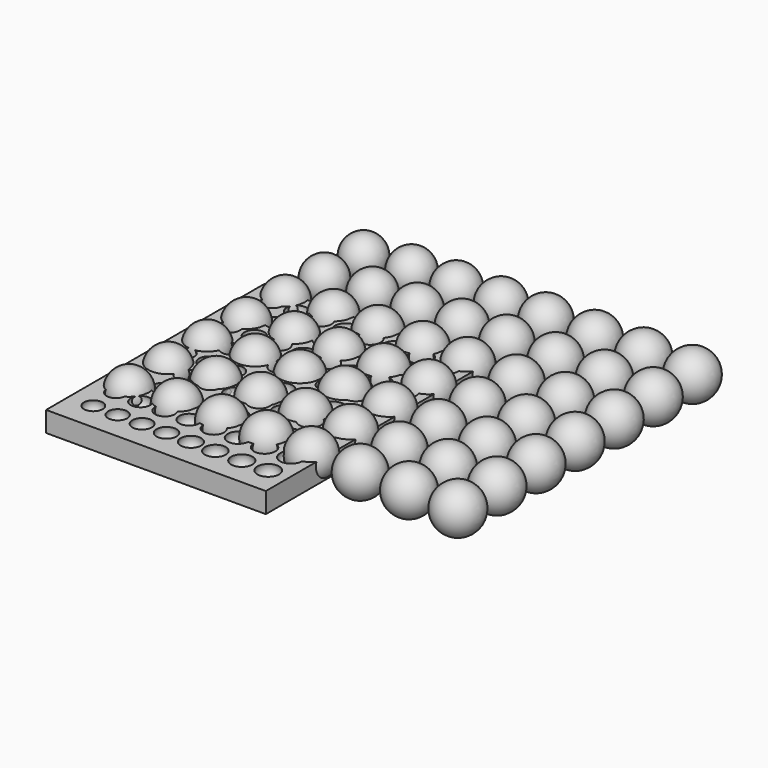
from build123d import *

# Parameters (mm, degrees)
BOX001_W     = 54
BOX001_H     = 67
BOX001_DEPTH = 5


with BuildPart() as sphere014:
    # Sphere014 → Sphere014 (revolve)
    with BuildSketch(Plane(origin=(75, 19, 6.95), x_dir=(1, 0, 0), z_dir=(0, -1, 0))):
        with BuildLine():
            ThreePointArc((0, -5.6), (5.6, 0), (0, 5.6))
            Line((0, 5.6), (0, -5.6))
        make_face()
    revolve(axis=Axis((75, 19, 6.95), (0, 0, 1)))


with BuildPart() as sphere010:
    # Sphere010 → Sphere010 (revolve)
    with BuildSketch(Plane(origin=(18, 19, 6.95), x_dir=(1, 0, 0), z_dir=(0, -1, 0))):
        with BuildLine():
            ThreePointArc((0, -5.1), (5.1, 0), (0, 5.1))
            Line((0, 5.1), (0, -5.1))
        make_face()
    revolve(axis=Axis((18, 19, 6.95), (0, 0, 1)))


with BuildPart() as sphere013:
    # Sphere013 → Sphere013 (revolve)
    with BuildSketch(Plane(origin=(40, 19, 6.95), x_dir=(1, 0, 0), z_dir=(0, -1, 0))):
        with BuildLine():
            ThreePointArc((0, -5.3), (5.3, 0), (0, 5.3))
            Line((0, 5.3), (0, -5.3))
        make_face()
    revolve(axis=Axis((40, 19, 6.95), (0, 0, 1)))


with BuildPart() as sphere011:
    # Sphere011 → Sphere011 (revolve)
    with BuildSketch(Plane(origin=(29, 19, 6.95), x_dir=(1, 0, 0), z_dir=(0, -1, 0))):
        with BuildLine():
            ThreePointArc((0, -5.2), (5.2, 0), (0, 5.2))
            Line((0, 5.2), (0, -5.2))
        make_face()
    revolve(axis=Axis((29, 19, 6.95), (0, 0, 1)))


with BuildPart() as sphere015:
    # Sphere015 → Sphere015 (revolve)
    with BuildSketch(Plane(origin=(63, 19, 6.95), x_dir=(1, 0, 0), z_dir=(0, -1, 0))):
        with BuildLine():
            ThreePointArc((0, -5.5), (5.5, 0), (0, 5.5))
            Line((0, 5.5), (0, -5.5))
        make_face()
    revolve(axis=Axis((63, 19, 6.95), (0, 0, 1)))


with BuildPart() as sphere012:
    # Sphere012 → Sphere012 (revolve)
    with BuildSketch(Plane(origin=(51, 19, 6.95), x_dir=(1, 0, 0), z_dir=(0, -1, 0))):
        with BuildLine():
            ThreePointArc((0, -5.4), (5.4, 0), (0, 5.4))
            Line((0, 5.4), (0, -5.4))
        make_face()
    revolve(axis=Axis((51, 19, 6.95), (0, 0, 1)))


with BuildPart() as sphere016:
    # Sphere016 → Sphere016 (revolve)
    with BuildSketch(Plane(origin=(87, 19, 6.95), x_dir=(1, 0, 0), z_dir=(0, -1, 0))):
        with BuildLine():
            ThreePointArc((0, -5.7), (5.7, 0), (0, 5.7))
            Line((0, 5.7), (0, -5.7))
        make_face()
    revolve(axis=Axis((87, 19, 6.95), (0, 0, 1)))


with BuildPart() as sphere009:
    # Sphere009 → Sphere009 (revolve)
    with BuildSketch(Plane(origin=(7, 18, 6.95), x_dir=(1, 0, 0), z_dir=(0, -1, 0))):
        with BuildLine():
            ThreePointArc((0, -5), (5, 0), (0, 5))
            Line((0, 5), (0, -5))
        make_face()
    revolve(axis=Axis((7, 18, 6.95), (0, 0, 1)))


with BuildPart() as fusion:
    # Sphere008 → Sphere008 (revolve)
    with BuildSketch(Plane(origin=(7, 18, 6.95), x_dir=(1, 0, 0), z_dir=(0, -1, 0))):
        with BuildLine():
            ThreePointArc((0, -5), (5, 0), (0, 5))
            Line((0, 5), (0, -5))
        make_face()
    revolve(axis=Axis((7, 18, 6.95), (0, 0, 1)))

    # Fusion: union Sphere014, Sphere010, Sphere013, Sphere011, Sphere015, Sphere012, Sphere016, Sphere009
    add(sphere014.part)
    add(sphere010.part)
    add(sphere013.part)
    add(sphere011.part)
    add(sphere015.part)
    add(sphere012.part)
    add(sphere016.part)
    add(sphere009.part)


with BuildPart() as sphere017:
    # Sphere017 → Sphere017 (revolve)
    with BuildSketch(Plane(origin=(75, 19, 6.95), x_dir=(1, 0, 0), z_dir=(0, -1, 0))):
        with BuildLine():
            ThreePointArc((0, -5.6), (5.6, 0), (0, 5.6))
            Line((0, 5.6), (0, -5.6))
        make_face()
    revolve(axis=Axis((75, 19, 6.95), (0, 0, 1)))


with BuildPart() as sphere018:
    # Sphere018 → Sphere018 (revolve)
    with BuildSketch(Plane(origin=(18, 19, 6.95), x_dir=(1, 0, 0), z_dir=(0, -1, 0))):
        with BuildLine():
            ThreePointArc((0, -5.1), (5.1, 0), (0, 5.1))
            Line((0, 5.1), (0, -5.1))
        make_face()
    revolve(axis=Axis((18, 19, 6.95), (0, 0, 1)))


with BuildPart() as sphere019:
    # Sphere019 → Sphere019 (revolve)
    with BuildSketch(Plane(origin=(40, 19, 6.95), x_dir=(1, 0, 0), z_dir=(0, -1, 0))):
        with BuildLine():
            ThreePointArc((0, -5.3), (5.3, 0), (0, 5.3))
            Line((0, 5.3), (0, -5.3))
        make_face()
    revolve(axis=Axis((40, 19, 6.95), (0, 0, 1)))


with BuildPart() as sphere021:
    # Sphere021 → Sphere021 (revolve)
    with BuildSketch(Plane(origin=(29, 19, 6.95), x_dir=(1, 0, 0), z_dir=(0, -1, 0))):
        with BuildLine():
            ThreePointArc((0, -5.2), (5.2, 0), (0, 5.2))
            Line((0, 5.2), (0, -5.2))
        make_face()
    revolve(axis=Axis((29, 19, 6.95), (0, 0, 1)))


with BuildPart() as sphere022:
    # Sphere022 → Sphere022 (revolve)
    with BuildSketch(Plane(origin=(63, 19, 6.95), x_dir=(1, 0, 0), z_dir=(0, -1, 0))):
        with BuildLine():
            ThreePointArc((0, -5.5), (5.5, 0), (0, 5.5))
            Line((0, 5.5), (0, -5.5))
        make_face()
    revolve(axis=Axis((63, 19, 6.95), (0, 0, 1)))


with BuildPart() as sphere023:
    # Sphere023 → Sphere023 (revolve)
    with BuildSketch(Plane(origin=(51, 19, 6.95), x_dir=(1, 0, 0), z_dir=(0, -1, 0))):
        with BuildLine():
            ThreePointArc((0, -5.4), (5.4, 0), (0, 5.4))
            Line((0, 5.4), (0, -5.4))
        make_face()
    revolve(axis=Axis((51, 19, 6.95), (0, 0, 1)))


with BuildPart() as sphere024:
    # Sphere024 → Sphere024 (revolve)
    with BuildSketch(Plane(origin=(87, 19, 6.95), x_dir=(1, 0, 0), z_dir=(0, -1, 0))):
        with BuildLine():
            ThreePointArc((0, -5.7), (5.7, 0), (0, 5.7))
            Line((0, 5.7), (0, -5.7))
        make_face()
    revolve(axis=Axis((87, 19, 6.95), (0, 0, 1)))


with BuildPart() as sphere025:
    # Sphere025 → Sphere025 (revolve)
    with BuildSketch(Plane(origin=(7, 18, 6.95), x_dir=(1, 0, 0), z_dir=(0, -1, 0))):
        with BuildLine():
            ThreePointArc((0, -5), (5, 0), (0, 5))
            Line((0, 5), (0, -5))
        make_face()
    revolve(axis=Axis((7, 18, 6.95), (0, 0, 1)))


with BuildPart() as fusion001:
    # Sphere020 → Sphere020 (revolve)
    with BuildSketch(Plane(origin=(7, 18, 6.95), x_dir=(1, 0, 0), z_dir=(0, -1, 0))):
        with BuildLine():
            ThreePointArc((0, -5), (5, 0), (0, 5))
            Line((0, 5), (0, -5))
        make_face()
    revolve(axis=Axis((7, 18, 6.95), (0, 0, 1)))

    # Fusion001: union Sphere017, Sphere018, Sphere019, Sphere021, Sphere022, Sphere023, Sphere024, Sphere025
    add(sphere017.part)
    add(sphere018.part)
    add(sphere019.part)
    add(sphere021.part)
    add(sphere022.part)
    add(sphere023.part)
    add(sphere024.part)
    add(sphere025.part)


with BuildPart() as fusion001_1:
    # Fusion001 placement: moved
    add(fusion001.part.moved(Location((0, 12, -0.05))))


with BuildPart() as sphere026:
    # Sphere026 → Sphere026 (revolve)
    with BuildSketch(Plane(origin=(75, 19, 6.95), x_dir=(1, 0, 0), z_dir=(0, -1, 0))):
        with BuildLine():
            ThreePointArc((0, -5.6), (5.6, 0), (0, 5.6))
            Line((0, 5.6), (0, -5.6))
        make_face()
    revolve(axis=Axis((75, 19, 6.95), (0, 0, 1)))


with BuildPart() as sphere034:
    # Sphere034 → Sphere034 (revolve)
    with BuildSketch(Plane(origin=(18, 19, 6.95), x_dir=(1, 0, 0), z_dir=(0, -1, 0))):
        with BuildLine():
            ThreePointArc((0, -5.1), (5.1, 0), (0, 5.1))
            Line((0, 5.1), (0, -5.1))
        make_face()
    revolve(axis=Axis((18, 19, 6.95), (0, 0, 1)))


with BuildPart() as sphere027:
    # Sphere027 → Sphere027 (revolve)
    with BuildSketch(Plane(origin=(40, 19, 6.95), x_dir=(1, 0, 0), z_dir=(0, -1, 0))):
        with BuildLine():
            ThreePointArc((0, -5.3), (5.3, 0), (0, 5.3))
            Line((0, 5.3), (0, -5.3))
        make_face()
    revolve(axis=Axis((40, 19, 6.95), (0, 0, 1)))


with BuildPart() as sphere029:
    # Sphere029 → Sphere029 (revolve)
    with BuildSketch(Plane(origin=(29, 19, 6.95), x_dir=(1, 0, 0), z_dir=(0, -1, 0))):
        with BuildLine():
            ThreePointArc((0, -5.2), (5.2, 0), (0, 5.2))
            Line((0, 5.2), (0, -5.2))
        make_face()
    revolve(axis=Axis((29, 19, 6.95), (0, 0, 1)))


with BuildPart() as sphere030:
    # Sphere030 → Sphere030 (revolve)
    with BuildSketch(Plane(origin=(63, 19, 6.95), x_dir=(1, 0, 0), z_dir=(0, -1, 0))):
        with BuildLine():
            ThreePointArc((0, -5.5), (5.5, 0), (0, 5.5))
            Line((0, 5.5), (0, -5.5))
        make_face()
    revolve(axis=Axis((63, 19, 6.95), (0, 0, 1)))


with BuildPart() as sphere031:
    # Sphere031 → Sphere031 (revolve)
    with BuildSketch(Plane(origin=(51, 19, 6.95), x_dir=(1, 0, 0), z_dir=(0, -1, 0))):
        with BuildLine():
            ThreePointArc((0, -5.4), (5.4, 0), (0, 5.4))
            Line((0, 5.4), (0, -5.4))
        make_face()
    revolve(axis=Axis((51, 19, 6.95), (0, 0, 1)))


with BuildPart() as sphere032:
    # Sphere032 → Sphere032 (revolve)
    with BuildSketch(Plane(origin=(87, 19, 6.95), x_dir=(1, 0, 0), z_dir=(0, -1, 0))):
        with BuildLine():
            ThreePointArc((0, -5.7), (5.7, 0), (0, 5.7))
            Line((0, 5.7), (0, -5.7))
        make_face()
    revolve(axis=Axis((87, 19, 6.95), (0, 0, 1)))


with BuildPart() as sphere033:
    # Sphere033 → Sphere033 (revolve)
    with BuildSketch(Plane(origin=(7, 18, 6.95), x_dir=(1, 0, 0), z_dir=(0, -1, 0))):
        with BuildLine():
            ThreePointArc((0, -5), (5, 0), (0, 5))
            Line((0, 5), (0, -5))
        make_face()
    revolve(axis=Axis((7, 18, 6.95), (0, 0, 1)))


with BuildPart() as fusion002:
    # Sphere028 → Sphere028 (revolve)
    with BuildSketch(Plane(origin=(7, 18, 6.95), x_dir=(1, 0, 0), z_dir=(0, -1, 0))):
        with BuildLine():
            ThreePointArc((0, -5), (5, 0), (0, 5))
            Line((0, 5), (0, -5))
        make_face()
    revolve(axis=Axis((7, 18, 6.95), (0, 0, 1)))

    # Fusion002: union Sphere026, Sphere034, Sphere027, Sphere029, Sphere030, Sphere031, Sphere032, Sphere033
    add(sphere026.part)
    add(sphere034.part)
    add(sphere027.part)
    add(sphere029.part)
    add(sphere030.part)
    add(sphere031.part)
    add(sphere032.part)
    add(sphere033.part)


with BuildPart() as fusion002_1:
    # Fusion002 placement: moved
    add(fusion002.part.moved(Location((0, 24, -0.1))))


with BuildPart() as sphere042:
    # Sphere042 → Sphere042 (revolve)
    with BuildSketch(Plane(origin=(75, 19, 6.95), x_dir=(1, 0, 0), z_dir=(0, -1, 0))):
        with BuildLine():
            ThreePointArc((0, -5.6), (5.6, 0), (0, 5.6))
            Line((0, 5.6), (0, -5.6))
        make_face()
    revolve(axis=Axis((75, 19, 6.95), (0, 0, 1)))


with BuildPart() as sphere043:
    # Sphere043 → Sphere043 (revolve)
    with BuildSketch(Plane(origin=(18, 19, 6.95), x_dir=(1, 0, 0), z_dir=(0, -1, 0))):
        with BuildLine():
            ThreePointArc((0, -5.1), (5.1, 0), (0, 5.1))
            Line((0, 5.1), (0, -5.1))
        make_face()
    revolve(axis=Axis((18, 19, 6.95), (0, 0, 1)))


with BuildPart() as sphere038:
    # Sphere038 → Sphere038 (revolve)
    with BuildSketch(Plane(origin=(40, 19, 6.95), x_dir=(1, 0, 0), z_dir=(0, -1, 0))):
        with BuildLine():
            ThreePointArc((0, -5.3), (5.3, 0), (0, 5.3))
            Line((0, 5.3), (0, -5.3))
        make_face()
    revolve(axis=Axis((40, 19, 6.95), (0, 0, 1)))


with BuildPart() as sphere039:
    # Sphere039 → Sphere039 (revolve)
    with BuildSketch(Plane(origin=(29, 19, 6.95), x_dir=(1, 0, 0), z_dir=(0, -1, 0))):
        with BuildLine():
            ThreePointArc((0, -5.2), (5.2, 0), (0, 5.2))
            Line((0, 5.2), (0, -5.2))
        make_face()
    revolve(axis=Axis((29, 19, 6.95), (0, 0, 1)))


with BuildPart() as sphere035:
    # Sphere035 → Sphere035 (revolve)
    with BuildSketch(Plane(origin=(63, 19, 6.95), x_dir=(1, 0, 0), z_dir=(0, -1, 0))):
        with BuildLine():
            ThreePointArc((0, -5.5), (5.5, 0), (0, 5.5))
            Line((0, 5.5), (0, -5.5))
        make_face()
    revolve(axis=Axis((63, 19, 6.95), (0, 0, 1)))


with BuildPart() as sphere037:
    # Sphere037 → Sphere037 (revolve)
    with BuildSketch(Plane(origin=(51, 19, 6.95), x_dir=(1, 0, 0), z_dir=(0, -1, 0))):
        with BuildLine():
            ThreePointArc((0, -5.4), (5.4, 0), (0, 5.4))
            Line((0, 5.4), (0, -5.4))
        make_face()
    revolve(axis=Axis((51, 19, 6.95), (0, 0, 1)))


with BuildPart() as sphere041:
    # Sphere041 → Sphere041 (revolve)
    with BuildSketch(Plane(origin=(87, 19, 6.95), x_dir=(1, 0, 0), z_dir=(0, -1, 0))):
        with BuildLine():
            ThreePointArc((0, -5.7), (5.7, 0), (0, 5.7))
            Line((0, 5.7), (0, -5.7))
        make_face()
    revolve(axis=Axis((87, 19, 6.95), (0, 0, 1)))


with BuildPart() as sphere036:
    # Sphere036 → Sphere036 (revolve)
    with BuildSketch(Plane(origin=(7, 18, 6.95), x_dir=(1, 0, 0), z_dir=(0, -1, 0))):
        with BuildLine():
            ThreePointArc((0, -5), (5, 0), (0, 5))
            Line((0, 5), (0, -5))
        make_face()
    revolve(axis=Axis((7, 18, 6.95), (0, 0, 1)))


with BuildPart() as fusion003:
    # Sphere040 → Sphere040 (revolve)
    with BuildSketch(Plane(origin=(7, 18, 6.95), x_dir=(1, 0, 0), z_dir=(0, -1, 0))):
        with BuildLine():
            ThreePointArc((0, -5), (5, 0), (0, 5))
            Line((0, 5), (0, -5))
        make_face()
    revolve(axis=Axis((7, 18, 6.95), (0, 0, 1)))

    # Fusion003: union Sphere042, Sphere043, Sphere038, Sphere039, Sphere035, Sphere037, Sphere041, Sphere036
    add(sphere042.part)
    add(sphere043.part)
    add(sphere038.part)
    add(sphere039.part)
    add(sphere035.part)
    add(sphere037.part)
    add(sphere041.part)
    add(sphere036.part)


with BuildPart() as fusion003_1:
    # Fusion003 placement: moved
    add(fusion003.part.moved(Location((0, 36, -0.15))))


with BuildPart() as sphere051:
    # Sphere051 → Sphere051 (revolve)
    with BuildSketch(Plane(origin=(75, 19, 6.95), x_dir=(1, 0, 0), z_dir=(0, -1, 0))):
        with BuildLine():
            ThreePointArc((0, -5.6), (5.6, 0), (0, 5.6))
            Line((0, 5.6), (0, -5.6))
        make_face()
    revolve(axis=Axis((75, 19, 6.95), (0, 0, 1)))


with BuildPart() as sphere052:
    # Sphere052 → Sphere052 (revolve)
    with BuildSketch(Plane(origin=(18, 19, 6.95), x_dir=(1, 0, 0), z_dir=(0, -1, 0))):
        with BuildLine():
            ThreePointArc((0, -5.1), (5.1, 0), (0, 5.1))
            Line((0, 5.1), (0, -5.1))
        make_face()
    revolve(axis=Axis((18, 19, 6.95), (0, 0, 1)))


with BuildPart() as sphere049:
    # Sphere049 → Sphere049 (revolve)
    with BuildSketch(Plane(origin=(40, 19, 6.95), x_dir=(1, 0, 0), z_dir=(0, -1, 0))):
        with BuildLine():
            ThreePointArc((0, -5.3), (5.3, 0), (0, 5.3))
            Line((0, 5.3), (0, -5.3))
        make_face()
    revolve(axis=Axis((40, 19, 6.95), (0, 0, 1)))


with BuildPart() as sphere046:
    # Sphere046 → Sphere046 (revolve)
    with BuildSketch(Plane(origin=(29, 19, 6.95), x_dir=(1, 0, 0), z_dir=(0, -1, 0))):
        with BuildLine():
            ThreePointArc((0, -5.2), (5.2, 0), (0, 5.2))
            Line((0, 5.2), (0, -5.2))
        make_face()
    revolve(axis=Axis((29, 19, 6.95), (0, 0, 1)))


with BuildPart() as sphere044:
    # Sphere044 → Sphere044 (revolve)
    with BuildSketch(Plane(origin=(63, 19, 6.95), x_dir=(1, 0, 0), z_dir=(0, -1, 0))):
        with BuildLine():
            ThreePointArc((0, -5.5), (5.5, 0), (0, 5.5))
            Line((0, 5.5), (0, -5.5))
        make_face()
    revolve(axis=Axis((63, 19, 6.95), (0, 0, 1)))


with BuildPart() as sphere048:
    # Sphere048 → Sphere048 (revolve)
    with BuildSketch(Plane(origin=(51, 19, 6.95), x_dir=(1, 0, 0), z_dir=(0, -1, 0))):
        with BuildLine():
            ThreePointArc((0, -5.4), (5.4, 0), (0, 5.4))
            Line((0, 5.4), (0, -5.4))
        make_face()
    revolve(axis=Axis((51, 19, 6.95), (0, 0, 1)))


with BuildPart() as sphere050:
    # Sphere050 → Sphere050 (revolve)
    with BuildSketch(Plane(origin=(87, 19, 6.95), x_dir=(1, 0, 0), z_dir=(0, -1, 0))):
        with BuildLine():
            ThreePointArc((0, -5.7), (5.7, 0), (0, 5.7))
            Line((0, 5.7), (0, -5.7))
        make_face()
    revolve(axis=Axis((87, 19, 6.95), (0, 0, 1)))


with BuildPart() as sphere045:
    # Sphere045 → Sphere045 (revolve)
    with BuildSketch(Plane(origin=(7, 18, 6.95), x_dir=(1, 0, 0), z_dir=(0, -1, 0))):
        with BuildLine():
            ThreePointArc((0, -5), (5, 0), (0, 5))
            Line((0, 5), (0, -5))
        make_face()
    revolve(axis=Axis((7, 18, 6.95), (0, 0, 1)))


with BuildPart() as fusion004:
    # Sphere047 → Sphere047 (revolve)
    with BuildSketch(Plane(origin=(7, 18, 6.95), x_dir=(1, 0, 0), z_dir=(0, -1, 0))):
        with BuildLine():
            ThreePointArc((0, -5), (5, 0), (0, 5))
            Line((0, 5), (0, -5))
        make_face()
    revolve(axis=Axis((7, 18, 6.95), (0, 0, 1)))

    # Fusion004: union Sphere051, Sphere052, Sphere049, Sphere046, Sphere044, Sphere048, Sphere050, Sphere045
    add(sphere051.part)
    add(sphere052.part)
    add(sphere049.part)
    add(sphere046.part)
    add(sphere044.part)
    add(sphere048.part)
    add(sphere050.part)
    add(sphere045.part)


with BuildPart() as fusion004_1:
    # Fusion004 placement: moved
    add(fusion004.part.moved(Location((0, 48, -0.2))))


with BuildPart() as sphere060:
    # Sphere060 → Sphere060 (revolve)
    with BuildSketch(Plane(origin=(75, 19, 6.95), x_dir=(1, 0, 0), z_dir=(0, -1, 0))):
        with BuildLine():
            ThreePointArc((0, -5.6), (5.6, 0), (0, 5.6))
            Line((0, 5.6), (0, -5.6))
        make_face()
    revolve(axis=Axis((75, 19, 6.95), (0, 0, 1)))


with BuildPart() as sphere061:
    # Sphere061 → Sphere061 (revolve)
    with BuildSketch(Plane(origin=(18, 19, 6.95), x_dir=(1, 0, 0), z_dir=(0, -1, 0))):
        with BuildLine():
            ThreePointArc((0, -5.1), (5.1, 0), (0, 5.1))
            Line((0, 5.1), (0, -5.1))
        make_face()
    revolve(axis=Axis((18, 19, 6.95), (0, 0, 1)))


with BuildPart() as sphere055:
    # Sphere055 → Sphere055 (revolve)
    with BuildSketch(Plane(origin=(40, 19, 6.95), x_dir=(1, 0, 0), z_dir=(0, -1, 0))):
        with BuildLine():
            ThreePointArc((0, -5.3), (5.3, 0), (0, 5.3))
            Line((0, 5.3), (0, -5.3))
        make_face()
    revolve(axis=Axis((40, 19, 6.95), (0, 0, 1)))


with BuildPart() as sphere054:
    # Sphere054 → Sphere054 (revolve)
    with BuildSketch(Plane(origin=(29, 19, 6.95), x_dir=(1, 0, 0), z_dir=(0, -1, 0))):
        with BuildLine():
            ThreePointArc((0, -5.2), (5.2, 0), (0, 5.2))
            Line((0, 5.2), (0, -5.2))
        make_face()
    revolve(axis=Axis((29, 19, 6.95), (0, 0, 1)))


with BuildPart() as sphere056:
    # Sphere056 → Sphere056 (revolve)
    with BuildSketch(Plane(origin=(63, 19, 6.95), x_dir=(1, 0, 0), z_dir=(0, -1, 0))):
        with BuildLine():
            ThreePointArc((0, -5.5), (5.5, 0), (0, 5.5))
            Line((0, 5.5), (0, -5.5))
        make_face()
    revolve(axis=Axis((63, 19, 6.95), (0, 0, 1)))


with BuildPart() as sphere058:
    # Sphere058 → Sphere058 (revolve)
    with BuildSketch(Plane(origin=(51, 19, 6.95), x_dir=(1, 0, 0), z_dir=(0, -1, 0))):
        with BuildLine():
            ThreePointArc((0, -5.4), (5.4, 0), (0, 5.4))
            Line((0, 5.4), (0, -5.4))
        make_face()
    revolve(axis=Axis((51, 19, 6.95), (0, 0, 1)))


with BuildPart() as sphere059:
    # Sphere059 → Sphere059 (revolve)
    with BuildSketch(Plane(origin=(87, 19, 6.95), x_dir=(1, 0, 0), z_dir=(0, -1, 0))):
        with BuildLine():
            ThreePointArc((0, -5.7), (5.7, 0), (0, 5.7))
            Line((0, 5.7), (0, -5.7))
        make_face()
    revolve(axis=Axis((87, 19, 6.95), (0, 0, 1)))


with BuildPart() as sphere057:
    # Sphere057 → Sphere057 (revolve)
    with BuildSketch(Plane(origin=(7, 18, 6.95), x_dir=(1, 0, 0), z_dir=(0, -1, 0))):
        with BuildLine():
            ThreePointArc((0, -5), (5, 0), (0, 5))
            Line((0, 5), (0, -5))
        make_face()
    revolve(axis=Axis((7, 18, 6.95), (0, 0, 1)))


with BuildPart() as fusion005:
    # Sphere053 → Sphere053 (revolve)
    with BuildSketch(Plane(origin=(7, 18, 6.95), x_dir=(1, 0, 0), z_dir=(0, -1, 0))):
        with BuildLine():
            ThreePointArc((0, -5), (5, 0), (0, 5))
            Line((0, 5), (0, -5))
        make_face()
    revolve(axis=Axis((7, 18, 6.95), (0, 0, 1)))

    # Fusion005: union Sphere060, Sphere061, Sphere055, Sphere054, Sphere056, Sphere058, Sphere059, Sphere057
    add(sphere060.part)
    add(sphere061.part)
    add(sphere055.part)
    add(sphere054.part)
    add(sphere056.part)
    add(sphere058.part)
    add(sphere059.part)
    add(sphere057.part)


with BuildPart() as fusion005_1:
    # Fusion005 placement: moved
    add(fusion005.part.moved(Location((0, 60, -0.25))))


with BuildPart() as sphere065:
    # Sphere065 → Sphere065 (revolve)
    with BuildSketch(Plane(origin=(75, 19, 6.95), x_dir=(1, 0, 0), z_dir=(0, -1, 0))):
        with BuildLine():
            ThreePointArc((0, -5.6), (5.6, 0), (0, 5.6))
            Line((0, 5.6), (0, -5.6))
        make_face()
    revolve(axis=Axis((75, 19, 6.95), (0, 0, 1)))


with BuildPart() as sphere066:
    # Sphere066 → Sphere066 (revolve)
    with BuildSketch(Plane(origin=(18, 19, 6.95), x_dir=(1, 0, 0), z_dir=(0, -1, 0))):
        with BuildLine():
            ThreePointArc((0, -5.1), (5.1, 0), (0, 5.1))
            Line((0, 5.1), (0, -5.1))
        make_face()
    revolve(axis=Axis((18, 19, 6.95), (0, 0, 1)))


with BuildPart() as sphere069:
    # Sphere069 → Sphere069 (revolve)
    with BuildSketch(Plane(origin=(40, 19, 6.95), x_dir=(1, 0, 0), z_dir=(0, -1, 0))):
        with BuildLine():
            ThreePointArc((0, -5.3), (5.3, 0), (0, 5.3))
            Line((0, 5.3), (0, -5.3))
        make_face()
    revolve(axis=Axis((40, 19, 6.95), (0, 0, 1)))


with BuildPart() as sphere067:
    # Sphere067 → Sphere067 (revolve)
    with BuildSketch(Plane(origin=(29, 19, 6.95), x_dir=(1, 0, 0), z_dir=(0, -1, 0))):
        with BuildLine():
            ThreePointArc((0, -5.2), (5.2, 0), (0, 5.2))
            Line((0, 5.2), (0, -5.2))
        make_face()
    revolve(axis=Axis((29, 19, 6.95), (0, 0, 1)))


with BuildPart() as sphere063:
    # Sphere063 → Sphere063 (revolve)
    with BuildSketch(Plane(origin=(63, 19, 6.95), x_dir=(1, 0, 0), z_dir=(0, -1, 0))):
        with BuildLine():
            ThreePointArc((0, -5.5), (5.5, 0), (0, 5.5))
            Line((0, 5.5), (0, -5.5))
        make_face()
    revolve(axis=Axis((63, 19, 6.95), (0, 0, 1)))


with BuildPart() as sphere070:
    # Sphere070 → Sphere070 (revolve)
    with BuildSketch(Plane(origin=(51, 19, 6.95), x_dir=(1, 0, 0), z_dir=(0, -1, 0))):
        with BuildLine():
            ThreePointArc((0, -5.4), (5.4, 0), (0, 5.4))
            Line((0, 5.4), (0, -5.4))
        make_face()
    revolve(axis=Axis((51, 19, 6.95), (0, 0, 1)))


with BuildPart() as sphere064:
    # Sphere064 → Sphere064 (revolve)
    with BuildSketch(Plane(origin=(87, 19, 6.95), x_dir=(1, 0, 0), z_dir=(0, -1, 0))):
        with BuildLine():
            ThreePointArc((0, -5.7), (5.7, 0), (0, 5.7))
            Line((0, 5.7), (0, -5.7))
        make_face()
    revolve(axis=Axis((87, 19, 6.95), (0, 0, 1)))


with BuildPart() as sphere062:
    # Sphere062 → Sphere062 (revolve)
    with BuildSketch(Plane(origin=(7, 18, 6.95), x_dir=(1, 0, 0), z_dir=(0, -1, 0))):
        with BuildLine():
            ThreePointArc((0, -5), (5, 0), (0, 5))
            Line((0, 5), (0, -5))
        make_face()
    revolve(axis=Axis((7, 18, 6.95), (0, 0, 1)))


with BuildPart() as fusion006:
    # Sphere068 → Sphere068 (revolve)
    with BuildSketch(Plane(origin=(7, 18, 6.95), x_dir=(1, 0, 0), z_dir=(0, -1, 0))):
        with BuildLine():
            ThreePointArc((0, -5), (5, 0), (0, 5))
            Line((0, 5), (0, -5))
        make_face()
    revolve(axis=Axis((7, 18, 6.95), (0, 0, 1)))

    # Fusion006: union Sphere065, Sphere066, Sphere069, Sphere067, Sphere063, Sphere070, Sphere064, Sphere062
    add(sphere065.part)
    add(sphere066.part)
    add(sphere069.part)
    add(sphere067.part)
    add(sphere063.part)
    add(sphere070.part)
    add(sphere064.part)
    add(sphere062.part)


with BuildPart() as fusion006_1:
    # Fusion006 placement: moved
    add(fusion006.part.moved(Location((0, 72, -0.3))))


with BuildPart() as sphere073:
    # Sphere073 → Sphere073 (revolve)
    with BuildSketch(Plane(origin=(13, 7, 7), x_dir=(1, 0, 0), z_dir=(0, -1, 0))):
        with BuildLine():
            ThreePointArc((0, -2.55), (2.55, 0), (0, 2.55))
            Line((0, 2.55), (0, -2.55))
        make_face()
    revolve(axis=Axis((13, 7, 7), (0, 0, 1)))


with BuildPart() as sphere075:
    # Sphere075 → Sphere075 (revolve)
    with BuildSketch(Plane(origin=(31, 7, 7), x_dir=(1, 0, 0), z_dir=(0, -1, 0))):
        with BuildLine():
            ThreePointArc((0, -2.7), (2.7, 0), (0, 2.7))
            Line((0, 2.7), (0, -2.7))
        make_face()
    revolve(axis=Axis((31, 7, 7), (0, 0, 1)))


with BuildPart() as sphere077:
    # Sphere077 → Sphere077 (revolve)
    with BuildSketch(Plane(origin=(43.5, 7, 7), x_dir=(1, 0, 0), z_dir=(0, -1, 0))):
        with BuildLine():
            ThreePointArc((0, -2.8), (2.8, 0), (0, 2.8))
            Line((0, 2.8), (0, -2.8))
        make_face()
    revolve(axis=Axis((43.5, 7, 7), (0, 0, 1)))


with BuildPart() as sphere071:
    # Sphere071 → Sphere071 (revolve)
    with BuildSketch(Plane(origin=(19, 7, 7), x_dir=(1, 0, 0), z_dir=(0, -1, 0))):
        with BuildLine():
            ThreePointArc((0, -2.6), (2.6, 0), (0, 2.6))
            Line((0, 2.6), (0, -2.6))
        make_face()
    revolve(axis=Axis((19, 7, 7), (0, 0, 1)))


with BuildPart() as sphere078:
    # Sphere078 → Sphere078 (revolve)
    with BuildSketch(Plane(origin=(50, 7, 7), x_dir=(1, 0, 0), z_dir=(0, -1, 0))):
        with BuildLine():
            ThreePointArc((0, -2.85), (2.85, 0), (0, 2.85))
            Line((0, 2.85), (0, -2.85))
        make_face()
    revolve(axis=Axis((50, 7, 7), (0, 0, 1)))


with BuildPart() as sphere074:
    # Sphere074 → Sphere074 (revolve)
    with BuildSketch(Plane(origin=(25, 7, 7), x_dir=(1, 0, 0), z_dir=(0, -1, 0))):
        with BuildLine():
            ThreePointArc((0, -2.65), (2.65, 0), (0, 2.65))
            Line((0, 2.65), (0, -2.65))
        make_face()
    revolve(axis=Axis((25, 7, 7), (0, 0, 1)))


with BuildPart() as sphere076:
    # Sphere076 → Sphere076 (revolve)
    with BuildSketch(Plane(origin=(37, 7, 7), x_dir=(1, 0, 0), z_dir=(0, -1, 0))):
        with BuildLine():
            ThreePointArc((0, -2.75), (2.75, 0), (0, 2.75))
            Line((0, 2.75), (0, -2.75))
        make_face()
    revolve(axis=Axis((37, 7, 7), (0, 0, 1)))


with BuildPart() as fusion008:
    # Sphere072 → Sphere072 (revolve)
    with BuildSketch(Plane(origin=(7, 7, 7), x_dir=(1, 0, 0), z_dir=(0, -1, 0))):
        with BuildLine():
            ThreePointArc((0, -2.5), (2.5, 0), (0, 2.5))
            Line((0, 2.5), (0, -2.5))
        make_face()
    revolve(axis=Axis((7, 7, 7), (0, 0, 1)))

    # Fusion008: union Sphere073, Sphere075, Sphere077, Sphere071, Sphere078, Sphere074, Sphere076
    add(sphere073.part)
    add(sphere075.part)
    add(sphere077.part)
    add(sphere071.part)
    add(sphere078.part)
    add(sphere074.part)
    add(sphere076.part)


with BuildPart() as fusion008_1:
    # Fusion008 placement: moved
    add(fusion008.part.moved(Location((0, 7, 0.05))))


with BuildPart() as sphere081:
    # Sphere081 → Sphere081 (revolve)
    with BuildSketch(Plane(origin=(13, 7, 7), x_dir=(1, 0, 0), z_dir=(0, -1, 0))):
        with BuildLine():
            ThreePointArc((0, -2.55), (2.55, 0), (0, 2.55))
            Line((0, 2.55), (0, -2.55))
        make_face()
    revolve(axis=Axis((13, 7, 7), (0, 0, 1)))


with BuildPart() as sphere080:
    # Sphere080 → Sphere080 (revolve)
    with BuildSketch(Plane(origin=(31, 7, 7), x_dir=(1, 0, 0), z_dir=(0, -1, 0))):
        with BuildLine():
            ThreePointArc((0, -2.7), (2.7, 0), (0, 2.7))
            Line((0, 2.7), (0, -2.7))
        make_face()
    revolve(axis=Axis((31, 7, 7), (0, 0, 1)))


with BuildPart() as sphere084:
    # Sphere084 → Sphere084 (revolve)
    with BuildSketch(Plane(origin=(43.5, 7, 7), x_dir=(1, 0, 0), z_dir=(0, -1, 0))):
        with BuildLine():
            ThreePointArc((0, -2.8), (2.8, 0), (0, 2.8))
            Line((0, 2.8), (0, -2.8))
        make_face()
    revolve(axis=Axis((43.5, 7, 7), (0, 0, 1)))


with BuildPart() as sphere082:
    # Sphere082 → Sphere082 (revolve)
    with BuildSketch(Plane(origin=(19, 7, 7), x_dir=(1, 0, 0), z_dir=(0, -1, 0))):
        with BuildLine():
            ThreePointArc((0, -2.6), (2.6, 0), (0, 2.6))
            Line((0, 2.6), (0, -2.6))
        make_face()
    revolve(axis=Axis((19, 7, 7), (0, 0, 1)))


with BuildPart() as sphere085:
    # Sphere085 → Sphere085 (revolve)
    with BuildSketch(Plane(origin=(50, 7, 7), x_dir=(1, 0, 0), z_dir=(0, -1, 0))):
        with BuildLine():
            ThreePointArc((0, -2.85), (2.85, 0), (0, 2.85))
            Line((0, 2.85), (0, -2.85))
        make_face()
    revolve(axis=Axis((50, 7, 7), (0, 0, 1)))


with BuildPart() as sphere079:
    # Sphere079 → Sphere079 (revolve)
    with BuildSketch(Plane(origin=(25, 7, 7), x_dir=(1, 0, 0), z_dir=(0, -1, 0))):
        with BuildLine():
            ThreePointArc((0, -2.65), (2.65, 0), (0, 2.65))
            Line((0, 2.65), (0, -2.65))
        make_face()
    revolve(axis=Axis((25, 7, 7), (0, 0, 1)))


with BuildPart() as sphere086:
    # Sphere086 → Sphere086 (revolve)
    with BuildSketch(Plane(origin=(37, 7, 7), x_dir=(1, 0, 0), z_dir=(0, -1, 0))):
        with BuildLine():
            ThreePointArc((0, -2.75), (2.75, 0), (0, 2.75))
            Line((0, 2.75), (0, -2.75))
        make_face()
    revolve(axis=Axis((37, 7, 7), (0, 0, 1)))


with BuildPart() as fusion009:
    # Sphere083 → Sphere083 (revolve)
    with BuildSketch(Plane(origin=(7, 7, 7), x_dir=(1, 0, 0), z_dir=(0, -1, 0))):
        with BuildLine():
            ThreePointArc((0, -2.5), (2.5, 0), (0, 2.5))
            Line((0, 2.5), (0, -2.5))
        make_face()
    revolve(axis=Axis((7, 7, 7), (0, 0, 1)))

    # Fusion009: union Sphere081, Sphere080, Sphere084, Sphere082, Sphere085, Sphere079, Sphere086
    add(sphere081.part)
    add(sphere080.part)
    add(sphere084.part)
    add(sphere082.part)
    add(sphere085.part)
    add(sphere079.part)
    add(sphere086.part)


with BuildPart() as fusion009_1:
    # Fusion009 placement: moved
    add(fusion009.part.moved(Location((0, 14, 0.1))))


with BuildPart() as sphere092:
    # Sphere092 → Sphere092 (revolve)
    with BuildSketch(Plane(origin=(13, 7, 7), x_dir=(1, 0, 0), z_dir=(0, -1, 0))):
        with BuildLine():
            ThreePointArc((0, -2.55), (2.55, 0), (0, 2.55))
            Line((0, 2.55), (0, -2.55))
        make_face()
    revolve(axis=Axis((13, 7, 7), (0, 0, 1)))


with BuildPart() as sphere090:
    # Sphere090 → Sphere090 (revolve)
    with BuildSketch(Plane(origin=(31, 7, 7), x_dir=(1, 0, 0), z_dir=(0, -1, 0))):
        with BuildLine():
            ThreePointArc((0, -2.7), (2.7, 0), (0, 2.7))
            Line((0, 2.7), (0, -2.7))
        make_face()
    revolve(axis=Axis((31, 7, 7), (0, 0, 1)))


with BuildPart() as sphere091:
    # Sphere091 → Sphere091 (revolve)
    with BuildSketch(Plane(origin=(43.5, 7, 7), x_dir=(1, 0, 0), z_dir=(0, -1, 0))):
        with BuildLine():
            ThreePointArc((0, -2.8), (2.8, 0), (0, 2.8))
            Line((0, 2.8), (0, -2.8))
        make_face()
    revolve(axis=Axis((43.5, 7, 7), (0, 0, 1)))


with BuildPart() as sphere093:
    # Sphere093 → Sphere093 (revolve)
    with BuildSketch(Plane(origin=(19, 7, 7), x_dir=(1, 0, 0), z_dir=(0, -1, 0))):
        with BuildLine():
            ThreePointArc((0, -2.6), (2.6, 0), (0, 2.6))
            Line((0, 2.6), (0, -2.6))
        make_face()
    revolve(axis=Axis((19, 7, 7), (0, 0, 1)))


with BuildPart() as sphere094:
    # Sphere094 → Sphere094 (revolve)
    with BuildSketch(Plane(origin=(50, 7, 7), x_dir=(1, 0, 0), z_dir=(0, -1, 0))):
        with BuildLine():
            ThreePointArc((0, -2.85), (2.85, 0), (0, 2.85))
            Line((0, 2.85), (0, -2.85))
        make_face()
    revolve(axis=Axis((50, 7, 7), (0, 0, 1)))


with BuildPart() as sphere088:
    # Sphere088 → Sphere088 (revolve)
    with BuildSketch(Plane(origin=(25, 7, 7), x_dir=(1, 0, 0), z_dir=(0, -1, 0))):
        with BuildLine():
            ThreePointArc((0, -2.65), (2.65, 0), (0, 2.65))
            Line((0, 2.65), (0, -2.65))
        make_face()
    revolve(axis=Axis((25, 7, 7), (0, 0, 1)))


with BuildPart() as sphere087:
    # Sphere087 → Sphere087 (revolve)
    with BuildSketch(Plane(origin=(37, 7, 7), x_dir=(1, 0, 0), z_dir=(0, -1, 0))):
        with BuildLine():
            ThreePointArc((0, -2.75), (2.75, 0), (0, 2.75))
            Line((0, 2.75), (0, -2.75))
        make_face()
    revolve(axis=Axis((37, 7, 7), (0, 0, 1)))


with BuildPart() as fusion010:
    # Sphere089 → Sphere089 (revolve)
    with BuildSketch(Plane(origin=(7, 7, 7), x_dir=(1, 0, 0), z_dir=(0, -1, 0))):
        with BuildLine():
            ThreePointArc((0, -2.5), (2.5, 0), (0, 2.5))
            Line((0, 2.5), (0, -2.5))
        make_face()
    revolve(axis=Axis((7, 7, 7), (0, 0, 1)))

    # Fusion010: union Sphere092, Sphere090, Sphere091, Sphere093, Sphere094, Sphere088, Sphere087
    add(sphere092.part)
    add(sphere090.part)
    add(sphere091.part)
    add(sphere093.part)
    add(sphere094.part)
    add(sphere088.part)
    add(sphere087.part)


with BuildPart() as fusion010_1:
    # Fusion010 placement: moved
    add(fusion010.part.moved(Location((0, 21, 0.15))))


with BuildPart() as sphere099:
    # Sphere099 → Sphere099 (revolve)
    with BuildSketch(Plane(origin=(13, 7, 7), x_dir=(1, 0, 0), z_dir=(0, -1, 0))):
        with BuildLine():
            ThreePointArc((0, -2.55), (2.55, 0), (0, 2.55))
            Line((0, 2.55), (0, -2.55))
        make_face()
    revolve(axis=Axis((13, 7, 7), (0, 0, 1)))


with BuildPart() as sphere098:
    # Sphere098 → Sphere098 (revolve)
    with BuildSketch(Plane(origin=(31, 7, 7), x_dir=(1, 0, 0), z_dir=(0, -1, 0))):
        with BuildLine():
            ThreePointArc((0, -2.7), (2.7, 0), (0, 2.7))
            Line((0, 2.7), (0, -2.7))
        make_face()
    revolve(axis=Axis((31, 7, 7), (0, 0, 1)))


with BuildPart() as sphere100:
    # Sphere100 → Sphere100 (revolve)
    with BuildSketch(Plane(origin=(43.5, 7, 7), x_dir=(1, 0, 0), z_dir=(0, -1, 0))):
        with BuildLine():
            ThreePointArc((0, -2.8), (2.8, 0), (0, 2.8))
            Line((0, 2.8), (0, -2.8))
        make_face()
    revolve(axis=Axis((43.5, 7, 7), (0, 0, 1)))


with BuildPart() as sphere101:
    # Sphere101 → Sphere101 (revolve)
    with BuildSketch(Plane(origin=(19, 7, 7), x_dir=(1, 0, 0), z_dir=(0, -1, 0))):
        with BuildLine():
            ThreePointArc((0, -2.6), (2.6, 0), (0, 2.6))
            Line((0, 2.6), (0, -2.6))
        make_face()
    revolve(axis=Axis((19, 7, 7), (0, 0, 1)))


with BuildPart() as sphere102:
    # Sphere102 → Sphere102 (revolve)
    with BuildSketch(Plane(origin=(50, 7, 7), x_dir=(1, 0, 0), z_dir=(0, -1, 0))):
        with BuildLine():
            ThreePointArc((0, -2.85), (2.85, 0), (0, 2.85))
            Line((0, 2.85), (0, -2.85))
        make_face()
    revolve(axis=Axis((50, 7, 7), (0, 0, 1)))


with BuildPart() as sphere095:
    # Sphere095 → Sphere095 (revolve)
    with BuildSketch(Plane(origin=(25, 7, 7), x_dir=(1, 0, 0), z_dir=(0, -1, 0))):
        with BuildLine():
            ThreePointArc((0, -2.65), (2.65, 0), (0, 2.65))
            Line((0, 2.65), (0, -2.65))
        make_face()
    revolve(axis=Axis((25, 7, 7), (0, 0, 1)))


with BuildPart() as sphere097:
    # Sphere097 → Sphere097 (revolve)
    with BuildSketch(Plane(origin=(37, 7, 7), x_dir=(1, 0, 0), z_dir=(0, -1, 0))):
        with BuildLine():
            ThreePointArc((0, -2.75), (2.75, 0), (0, 2.75))
            Line((0, 2.75), (0, -2.75))
        make_face()
    revolve(axis=Axis((37, 7, 7), (0, 0, 1)))


with BuildPart() as fusion011:
    # Sphere096 → Sphere096 (revolve)
    with BuildSketch(Plane(origin=(7, 7, 7), x_dir=(1, 0, 0), z_dir=(0, -1, 0))):
        with BuildLine():
            ThreePointArc((0, -2.5), (2.5, 0), (0, 2.5))
            Line((0, 2.5), (0, -2.5))
        make_face()
    revolve(axis=Axis((7, 7, 7), (0, 0, 1)))

    # Fusion011: union Sphere099, Sphere098, Sphere100, Sphere101, Sphere102, Sphere095, Sphere097
    add(sphere099.part)
    add(sphere098.part)
    add(sphere100.part)
    add(sphere101.part)
    add(sphere102.part)
    add(sphere095.part)
    add(sphere097.part)


with BuildPart() as fusion011_1:
    # Fusion011 placement: moved
    add(fusion011.part.moved(Location((0, 28, 0.2))))


with BuildPart() as sphere106:
    # Sphere106 → Sphere106 (revolve)
    with BuildSketch(Plane(origin=(13, 7, 7), x_dir=(1, 0, 0), z_dir=(0, -1, 0))):
        with BuildLine():
            ThreePointArc((0, -2.55), (2.55, 0), (0, 2.55))
            Line((0, 2.55), (0, -2.55))
        make_face()
    revolve(axis=Axis((13, 7, 7), (0, 0, 1)))


with BuildPart() as sphere104:
    # Sphere104 → Sphere104 (revolve)
    with BuildSketch(Plane(origin=(31, 7, 7), x_dir=(1, 0, 0), z_dir=(0, -1, 0))):
        with BuildLine():
            ThreePointArc((0, -2.7), (2.7, 0), (0, 2.7))
            Line((0, 2.7), (0, -2.7))
        make_face()
    revolve(axis=Axis((31, 7, 7), (0, 0, 1)))


with BuildPart() as sphere107:
    # Sphere107 → Sphere107 (revolve)
    with BuildSketch(Plane(origin=(43.5, 7, 7), x_dir=(1, 0, 0), z_dir=(0, -1, 0))):
        with BuildLine():
            ThreePointArc((0, -2.8), (2.8, 0), (0, 2.8))
            Line((0, 2.8), (0, -2.8))
        make_face()
    revolve(axis=Axis((43.5, 7, 7), (0, 0, 1)))


with BuildPart() as sphere109:
    # Sphere109 → Sphere109 (revolve)
    with BuildSketch(Plane(origin=(19, 7, 7), x_dir=(1, 0, 0), z_dir=(0, -1, 0))):
        with BuildLine():
            ThreePointArc((0, -2.6), (2.6, 0), (0, 2.6))
            Line((0, 2.6), (0, -2.6))
        make_face()
    revolve(axis=Axis((19, 7, 7), (0, 0, 1)))


with BuildPart() as sphere110:
    # Sphere110 → Sphere110 (revolve)
    with BuildSketch(Plane(origin=(50, 7, 7), x_dir=(1, 0, 0), z_dir=(0, -1, 0))):
        with BuildLine():
            ThreePointArc((0, -2.85), (2.85, 0), (0, 2.85))
            Line((0, 2.85), (0, -2.85))
        make_face()
    revolve(axis=Axis((50, 7, 7), (0, 0, 1)))


with BuildPart() as sphere103:
    # Sphere103 → Sphere103 (revolve)
    with BuildSketch(Plane(origin=(25, 7, 7), x_dir=(1, 0, 0), z_dir=(0, -1, 0))):
        with BuildLine():
            ThreePointArc((0, -2.65), (2.65, 0), (0, 2.65))
            Line((0, 2.65), (0, -2.65))
        make_face()
    revolve(axis=Axis((25, 7, 7), (0, 0, 1)))


with BuildPart() as sphere105:
    # Sphere105 → Sphere105 (revolve)
    with BuildSketch(Plane(origin=(37, 7, 7), x_dir=(1, 0, 0), z_dir=(0, -1, 0))):
        with BuildLine():
            ThreePointArc((0, -2.75), (2.75, 0), (0, 2.75))
            Line((0, 2.75), (0, -2.75))
        make_face()
    revolve(axis=Axis((37, 7, 7), (0, 0, 1)))


with BuildPart() as fusion012:
    # Sphere108 → Sphere108 (revolve)
    with BuildSketch(Plane(origin=(7, 7, 7), x_dir=(1, 0, 0), z_dir=(0, -1, 0))):
        with BuildLine():
            ThreePointArc((0, -2.5), (2.5, 0), (0, 2.5))
            Line((0, 2.5), (0, -2.5))
        make_face()
    revolve(axis=Axis((7, 7, 7), (0, 0, 1)))

    # Fusion012: union Sphere106, Sphere104, Sphere107, Sphere109, Sphere110, Sphere103, Sphere105
    add(sphere106.part)
    add(sphere104.part)
    add(sphere107.part)
    add(sphere109.part)
    add(sphere110.part)
    add(sphere103.part)
    add(sphere105.part)


with BuildPart() as fusion012_1:
    # Fusion012 placement: moved
    add(fusion012.part.moved(Location((0, 35, 0.25))))


with BuildPart() as sphere119:
    # Sphere119 → Sphere119 (revolve)
    with BuildSketch(Plane(origin=(13, 7, 7), x_dir=(1, 0, 0), z_dir=(0, -1, 0))):
        with BuildLine():
            ThreePointArc((0, -2.55), (2.55, 0), (0, 2.55))
            Line((0, 2.55), (0, -2.55))
        make_face()
    revolve(axis=Axis((13, 7, 7), (0, 0, 1)))


with BuildPart() as sphere125:
    # Sphere125 → Sphere125 (revolve)
    with BuildSketch(Plane(origin=(31, 7, 7), x_dir=(1, 0, 0), z_dir=(0, -1, 0))):
        with BuildLine():
            ThreePointArc((0, -2.7), (2.7, 0), (0, 2.7))
            Line((0, 2.7), (0, -2.7))
        make_face()
    revolve(axis=Axis((31, 7, 7), (0, 0, 1)))


with BuildPart() as sphere122:
    # Sphere122 → Sphere122 (revolve)
    with BuildSketch(Plane(origin=(43.5, 7, 7), x_dir=(1, 0, 0), z_dir=(0, -1, 0))):
        with BuildLine():
            ThreePointArc((0, -2.8), (2.8, 0), (0, 2.8))
            Line((0, 2.8), (0, -2.8))
        make_face()
    revolve(axis=Axis((43.5, 7, 7), (0, 0, 1)))


with BuildPart() as sphere120:
    # Sphere120 → Sphere120 (revolve)
    with BuildSketch(Plane(origin=(19, 7, 7), x_dir=(1, 0, 0), z_dir=(0, -1, 0))):
        with BuildLine():
            ThreePointArc((0, -2.6), (2.6, 0), (0, 2.6))
            Line((0, 2.6), (0, -2.6))
        make_face()
    revolve(axis=Axis((19, 7, 7), (0, 0, 1)))


with BuildPart() as sphere121:
    # Sphere121 → Sphere121 (revolve)
    with BuildSketch(Plane(origin=(50, 7, 7), x_dir=(1, 0, 0), z_dir=(0, -1, 0))):
        with BuildLine():
            ThreePointArc((0, -2.85), (2.85, 0), (0, 2.85))
            Line((0, 2.85), (0, -2.85))
        make_face()
    revolve(axis=Axis((50, 7, 7), (0, 0, 1)))


with BuildPart() as sphere126:
    # Sphere126 → Sphere126 (revolve)
    with BuildSketch(Plane(origin=(25, 7, 7), x_dir=(1, 0, 0), z_dir=(0, -1, 0))):
        with BuildLine():
            ThreePointArc((0, -2.65), (2.65, 0), (0, 2.65))
            Line((0, 2.65), (0, -2.65))
        make_face()
    revolve(axis=Axis((25, 7, 7), (0, 0, 1)))


with BuildPart() as sphere124:
    # Sphere124 → Sphere124 (revolve)
    with BuildSketch(Plane(origin=(37, 7, 7), x_dir=(1, 0, 0), z_dir=(0, -1, 0))):
        with BuildLine():
            ThreePointArc((0, -2.75), (2.75, 0), (0, 2.75))
            Line((0, 2.75), (0, -2.75))
        make_face()
    revolve(axis=Axis((37, 7, 7), (0, 0, 1)))


with BuildPart() as fusion014:
    # Sphere123 → Sphere123 (revolve)
    with BuildSketch(Plane(origin=(7, 7, 7), x_dir=(1, 0, 0), z_dir=(0, -1, 0))):
        with BuildLine():
            ThreePointArc((0, -2.5), (2.5, 0), (0, 2.5))
            Line((0, 2.5), (0, -2.5))
        make_face()
    revolve(axis=Axis((7, 7, 7), (0, 0, 1)))

    # Fusion014: union Sphere119, Sphere125, Sphere122, Sphere120, Sphere121, Sphere126, Sphere124
    add(sphere119.part)
    add(sphere125.part)
    add(sphere122.part)
    add(sphere120.part)
    add(sphere121.part)
    add(sphere126.part)
    add(sphere124.part)


with BuildPart() as fusion014_1:
    # Fusion014 placement: moved
    add(fusion014.part.moved(Location((0, 49, 0.35))))


with BuildPart() as sphere111:
    # Sphere111 → Sphere111 (revolve)
    with BuildSketch(Plane(origin=(13, 7, 7), x_dir=(1, 0, 0), z_dir=(0, -1, 0))):
        with BuildLine():
            ThreePointArc((0, -2.55), (2.55, 0), (0, 2.55))
            Line((0, 2.55), (0, -2.55))
        make_face()
    revolve(axis=Axis((13, 7, 7), (0, 0, 1)))


with BuildPart() as sphere117:
    # Sphere117 → Sphere117 (revolve)
    with BuildSketch(Plane(origin=(31, 7, 7), x_dir=(1, 0, 0), z_dir=(0, -1, 0))):
        with BuildLine():
            ThreePointArc((0, -2.7), (2.7, 0), (0, 2.7))
            Line((0, 2.7), (0, -2.7))
        make_face()
    revolve(axis=Axis((31, 7, 7), (0, 0, 1)))


with BuildPart() as sphere112:
    # Sphere112 → Sphere112 (revolve)
    with BuildSketch(Plane(origin=(43.5, 7, 7), x_dir=(1, 0, 0), z_dir=(0, -1, 0))):
        with BuildLine():
            ThreePointArc((0, -2.8), (2.8, 0), (0, 2.8))
            Line((0, 2.8), (0, -2.8))
        make_face()
    revolve(axis=Axis((43.5, 7, 7), (0, 0, 1)))


with BuildPart() as sphere114:
    # Sphere114 → Sphere114 (revolve)
    with BuildSketch(Plane(origin=(19, 7, 7), x_dir=(1, 0, 0), z_dir=(0, -1, 0))):
        with BuildLine():
            ThreePointArc((0, -2.6), (2.6, 0), (0, 2.6))
            Line((0, 2.6), (0, -2.6))
        make_face()
    revolve(axis=Axis((19, 7, 7), (0, 0, 1)))


with BuildPart() as sphere115:
    # Sphere115 → Sphere115 (revolve)
    with BuildSketch(Plane(origin=(50, 7, 7), x_dir=(1, 0, 0), z_dir=(0, -1, 0))):
        with BuildLine():
            ThreePointArc((0, -2.85), (2.85, 0), (0, 2.85))
            Line((0, 2.85), (0, -2.85))
        make_face()
    revolve(axis=Axis((50, 7, 7), (0, 0, 1)))


with BuildPart() as sphere118:
    # Sphere118 → Sphere118 (revolve)
    with BuildSketch(Plane(origin=(25, 7, 7), x_dir=(1, 0, 0), z_dir=(0, -1, 0))):
        with BuildLine():
            ThreePointArc((0, -2.65), (2.65, 0), (0, 2.65))
            Line((0, 2.65), (0, -2.65))
        make_face()
    revolve(axis=Axis((25, 7, 7), (0, 0, 1)))


with BuildPart() as sphere116:
    # Sphere116 → Sphere116 (revolve)
    with BuildSketch(Plane(origin=(37, 7, 7), x_dir=(1, 0, 0), z_dir=(0, -1, 0))):
        with BuildLine():
            ThreePointArc((0, -2.75), (2.75, 0), (0, 2.75))
            Line((0, 2.75), (0, -2.75))
        make_face()
    revolve(axis=Axis((37, 7, 7), (0, 0, 1)))


with BuildPart() as fusion013:
    # Sphere113 → Sphere113 (revolve)
    with BuildSketch(Plane(origin=(7, 7, 7), x_dir=(1, 0, 0), z_dir=(0, -1, 0))):
        with BuildLine():
            ThreePointArc((0, -2.5), (2.5, 0), (0, 2.5))
            Line((0, 2.5), (0, -2.5))
        make_face()
    revolve(axis=Axis((7, 7, 7), (0, 0, 1)))

    # Fusion013: union Sphere111, Sphere117, Sphere112, Sphere114, Sphere115, Sphere118, Sphere116
    add(sphere111.part)
    add(sphere117.part)
    add(sphere112.part)
    add(sphere114.part)
    add(sphere115.part)
    add(sphere118.part)
    add(sphere116.part)


with BuildPart() as fusion013_1:
    # Fusion013 placement: moved
    add(fusion013.part.moved(Location((0, 42, 0.3))))


with BuildPart() as sphere128:
    # Sphere128 → Sphere128 (revolve)
    with BuildSketch(Plane(origin=(13, 7, 7), x_dir=(1, 0, 0), z_dir=(0, -1, 0))):
        with BuildLine():
            ThreePointArc((0, -2.55), (2.55, 0), (0, 2.55))
            Line((0, 2.55), (0, -2.55))
        make_face()
    revolve(axis=Axis((13, 7, 7), (0, 0, 1)))


with BuildPart() as sphere133:
    # Sphere133 → Sphere133 (revolve)
    with BuildSketch(Plane(origin=(31, 7, 7), x_dir=(1, 0, 0), z_dir=(0, -1, 0))):
        with BuildLine():
            ThreePointArc((0, -2.7), (2.7, 0), (0, 2.7))
            Line((0, 2.7), (0, -2.7))
        make_face()
    revolve(axis=Axis((31, 7, 7), (0, 0, 1)))


with BuildPart() as sphere130:
    # Sphere130 → Sphere130 (revolve)
    with BuildSketch(Plane(origin=(43.5, 7, 7), x_dir=(1, 0, 0), z_dir=(0, -1, 0))):
        with BuildLine():
            ThreePointArc((0, -2.8), (2.8, 0), (0, 2.8))
            Line((0, 2.8), (0, -2.8))
        make_face()
    revolve(axis=Axis((43.5, 7, 7), (0, 0, 1)))


with BuildPart() as sphere127:
    # Sphere127 → Sphere127 (revolve)
    with BuildSketch(Plane(origin=(19, 7, 7), x_dir=(1, 0, 0), z_dir=(0, -1, 0))):
        with BuildLine():
            ThreePointArc((0, -2.6), (2.6, 0), (0, 2.6))
            Line((0, 2.6), (0, -2.6))
        make_face()
    revolve(axis=Axis((19, 7, 7), (0, 0, 1)))


with BuildPart() as sphere129:
    # Sphere129 → Sphere129 (revolve)
    with BuildSketch(Plane(origin=(50, 7, 7), x_dir=(1, 0, 0), z_dir=(0, -1, 0))):
        with BuildLine():
            ThreePointArc((0, -2.85), (2.85, 0), (0, 2.85))
            Line((0, 2.85), (0, -2.85))
        make_face()
    revolve(axis=Axis((50, 7, 7), (0, 0, 1)))


with BuildPart() as sphere134:
    # Sphere134 → Sphere134 (revolve)
    with BuildSketch(Plane(origin=(25, 7, 7), x_dir=(1, 0, 0), z_dir=(0, -1, 0))):
        with BuildLine():
            ThreePointArc((0, -2.65), (2.65, 0), (0, 2.65))
            Line((0, 2.65), (0, -2.65))
        make_face()
    revolve(axis=Axis((25, 7, 7), (0, 0, 1)))


with BuildPart() as sphere132:
    # Sphere132 → Sphere132 (revolve)
    with BuildSketch(Plane(origin=(37, 7, 7), x_dir=(1, 0, 0), z_dir=(0, -1, 0))):
        with BuildLine():
            ThreePointArc((0, -2.75), (2.75, 0), (0, 2.75))
            Line((0, 2.75), (0, -2.75))
        make_face()
    revolve(axis=Axis((37, 7, 7), (0, 0, 1)))


with BuildPart() as fusion015:
    # Sphere131 → Sphere131 (revolve)
    with BuildSketch(Plane(origin=(7, 7, 7), x_dir=(1, 0, 0), z_dir=(0, -1, 0))):
        with BuildLine():
            ThreePointArc((0, -2.5), (2.5, 0), (0, 2.5))
            Line((0, 2.5), (0, -2.5))
        make_face()
    revolve(axis=Axis((7, 7, 7), (0, 0, 1)))

    # Fusion015: union Sphere128, Sphere133, Sphere130, Sphere127, Sphere129, Sphere134, Sphere132
    add(sphere128.part)
    add(sphere133.part)
    add(sphere130.part)
    add(sphere127.part)
    add(sphere129.part)
    add(sphere134.part)
    add(sphere132.part)


with BuildPart() as fusion015_1:
    # Fusion015 placement: moved
    add(fusion015.part.moved(Location((0, 55, 0.4))))


with BuildPart() as sphere001:
    # Sphere001 → Sphere001 (revolve)
    with BuildSketch(Plane(origin=(13, 7, 7), x_dir=(1, 0, 0), z_dir=(0, -1, 0))):
        with BuildLine():
            ThreePointArc((0, -2.55), (2.55, 0), (0, 2.55))
            Line((0, 2.55), (0, -2.55))
        make_face()
    revolve(axis=Axis((13, 7, 7), (0, 0, 1)))


with BuildPart() as sphere004:
    # Sphere004 → Sphere004 (revolve)
    with BuildSketch(Plane(origin=(31, 7, 7), x_dir=(1, 0, 0), z_dir=(0, -1, 0))):
        with BuildLine():
            ThreePointArc((0, -2.7), (2.7, 0), (0, 2.7))
            Line((0, 2.7), (0, -2.7))
        make_face()
    revolve(axis=Axis((31, 7, 7), (0, 0, 1)))


with BuildPart() as sphere006:
    # Sphere006 → Sphere006 (revolve)
    with BuildSketch(Plane(origin=(43.5, 7, 7), x_dir=(1, 0, 0), z_dir=(0, -1, 0))):
        with BuildLine():
            ThreePointArc((0, -2.8), (2.8, 0), (0, 2.8))
            Line((0, 2.8), (0, -2.8))
        make_face()
    revolve(axis=Axis((43.5, 7, 7), (0, 0, 1)))


with BuildPart() as sphere002:
    # Sphere002 → Sphere002 (revolve)
    with BuildSketch(Plane(origin=(19, 7, 7), x_dir=(1, 0, 0), z_dir=(0, -1, 0))):
        with BuildLine():
            ThreePointArc((0, -2.6), (2.6, 0), (0, 2.6))
            Line((0, 2.6), (0, -2.6))
        make_face()
    revolve(axis=Axis((19, 7, 7), (0, 0, 1)))


with BuildPart() as sphere007:
    # Sphere007 → Sphere007 (revolve)
    with BuildSketch(Plane(origin=(50, 7, 7), x_dir=(1, 0, 0), z_dir=(0, -1, 0))):
        with BuildLine():
            ThreePointArc((0, -2.85), (2.85, 0), (0, 2.85))
            Line((0, 2.85), (0, -2.85))
        make_face()
    revolve(axis=Axis((50, 7, 7), (0, 0, 1)))


with BuildPart() as sphere003:
    # Sphere003 → Sphere003 (revolve)
    with BuildSketch(Plane(origin=(25, 7, 7), x_dir=(1, 0, 0), z_dir=(0, -1, 0))):
        with BuildLine():
            ThreePointArc((0, -2.65), (2.65, 0), (0, 2.65))
            Line((0, 2.65), (0, -2.65))
        make_face()
    revolve(axis=Axis((25, 7, 7), (0, 0, 1)))


with BuildPart() as sphere005:
    # Sphere005 → Sphere005 (revolve)
    with BuildSketch(Plane(origin=(37, 7, 7), x_dir=(1, 0, 0), z_dir=(0, -1, 0))):
        with BuildLine():
            ThreePointArc((0, -2.75), (2.75, 0), (0, 2.75))
            Line((0, 2.75), (0, -2.75))
        make_face()
    revolve(axis=Axis((37, 7, 7), (0, 0, 1)))


with BuildPart() as fusion016:
    # Sphere → Sphere (revolve)
    with BuildSketch(Plane(origin=(7, 7, 7), x_dir=(1, 0, 0), z_dir=(0, -1, 0))):
        with BuildLine():
            ThreePointArc((0, -2.5), (2.5, 0), (0, 2.5))
            Line((0, 2.5), (0, -2.5))
        make_face()
    revolve(axis=Axis((7, 7, 7), (0, 0, 1)))

    # Fusion007: union Sphere001, Sphere004, Sphere006, Sphere002, Sphere007, Sphere003, Sphere005
    add(sphere001.part)
    add(sphere004.part)
    add(sphere006.part)
    add(sphere002.part)
    add(sphere007.part)
    add(sphere003.part)
    add(sphere005.part)

    # Fusion016: union Fusion008, Fusion009, Fusion010, Fusion011, Fusion012, Fusion014, Fusion013, Fusion015
    add(fusion008_1.part)
    add(fusion009_1.part)
    add(fusion010_1.part)
    add(fusion011_1.part)
    add(fusion012_1.part)
    add(fusion014_1.part)
    add(fusion013_1.part)
    add(fusion015_1.part)


with BuildPart() as cut:
    # Box001 → Box001 (new body)
    with BuildSketch(Plane(origin=(1, 0, 3), x_dir=(1, 0, 0), z_dir=(0, 0, 1))):
        with Locations((27, 33.5)):
            Rectangle(BOX001_W, BOX001_H)
    extrude(amount=BOX001_DEPTH)

    # Cut: cut Fusion016
    add(fusion016.part, mode=Mode.SUBTRACT)


solid = Compound([fusion.part, fusion001_1.part, fusion002_1.part, fusion003_1.part, fusion004_1.part, fusion005_1.part, fusion006_1.part, cut.part])
